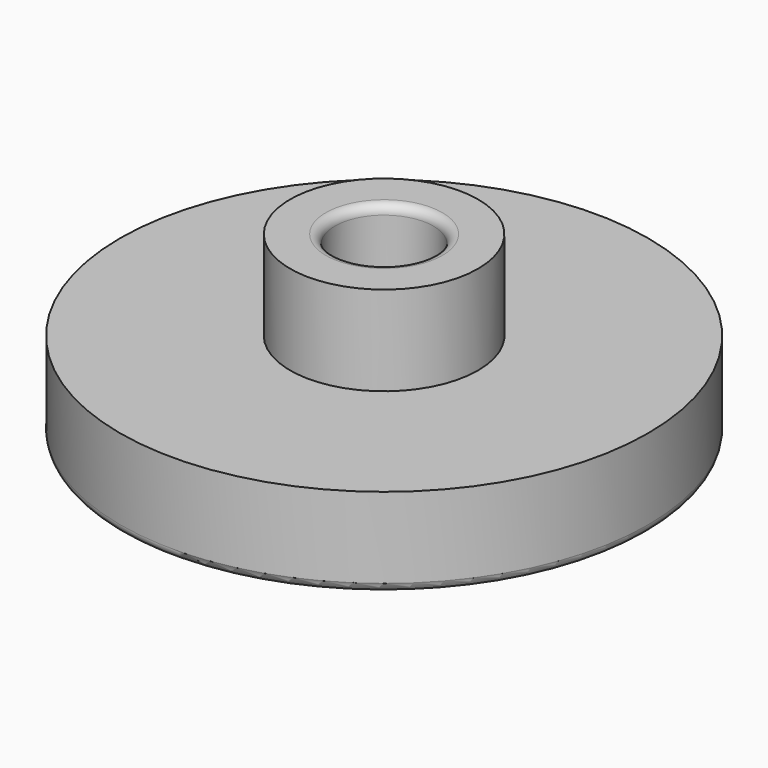
from build123d import *

# Parameters (mm, degrees)
F0_R     = 14.75
F1_DEPTH = 5
F2_R     = 5.25
F2_R_2   = 2.75
F3_DEPTH = 5
F4_R     = 0.5


with BuildPart() as f1:
    # F0 (on Top) → F1 (new body)
    with BuildSketch(Plane.XY):
        Circle(F0_R)
    extrude(amount=F1_DEPTH)

    # F2 (on face) → F3 (join)
    with BuildSketch(Plane.XY.offset(5)):
        Circle(F2_R)
        Circle(F2_R_2, mode=Mode.SUBTRACT)
    extrude(amount=F3_DEPTH)

    # F4
    f4_edges = [f1.edges().sort_by_distance(p)[0] for p in [
        (-14.75, 0, 0),
        (-2.75, 0, 10),
    ]]
    fillet(f4_edges, radius=F4_R)


solid = f1.part
